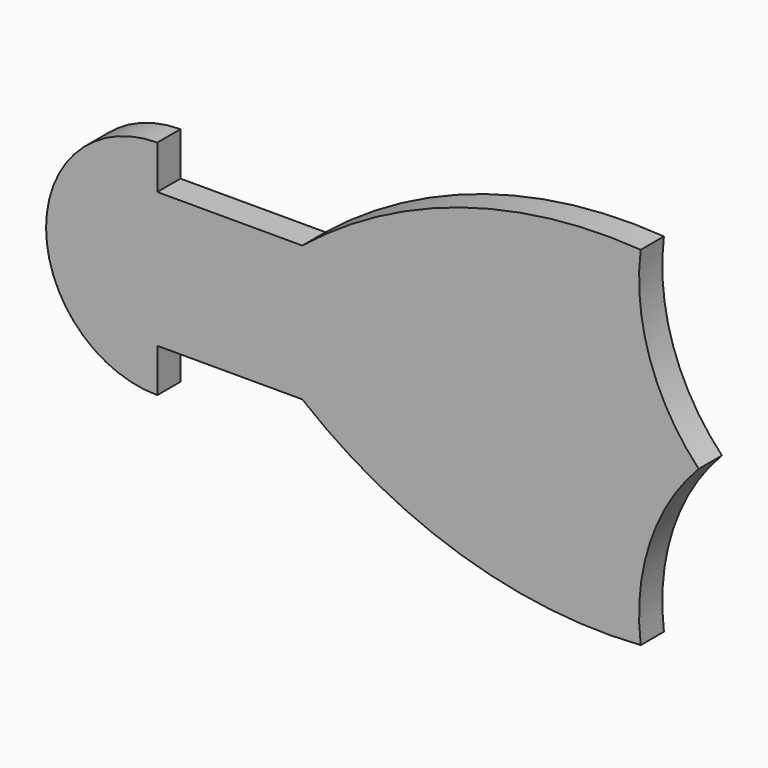
from build123d import *

# Parameters (mm, degrees)
F1_DEPTH = 76.2


with BuildPart() as f1:
    # F0 (on Front) → F1 (new body)
    with BuildSketch(Plane.XZ):
        with BuildLine():
            Line((-940.196848, 177.8), (-940.196848, 292.1))
            ThreePointArc((-940.196848, 292.1), (-1146.742739, 206.545891), (-1232.296848, 0))
            ThreePointArc((-1232.296848, 0), (-1146.742739, -206.545891), (-940.196848, -292.1))
            Line((-940.196848, -292.1), (-940.196848, -177.8))
            Line((-940.196848, -177.8), (-559.196848, -177.8))
            ThreePointArc((-559.196848, -177.8), (-141.249087, -401.984397), (329.803152, -457.2))
            ThreePointArc((329.803152, -457.2), (354.1819, -211.326249), (482.203152, 0))
            ThreePointArc((482.203152, 0), (354.1819, 211.326249), (329.803152, 457.2))
            ThreePointArc((329.803152, 457.2), (-141.249087, 401.984397), (-559.196848, 177.8))
            Line((-559.196848, 177.8), (-940.196848, 177.8))
        make_face()
    extrude(amount=F1_DEPTH)


solid = f1.part
